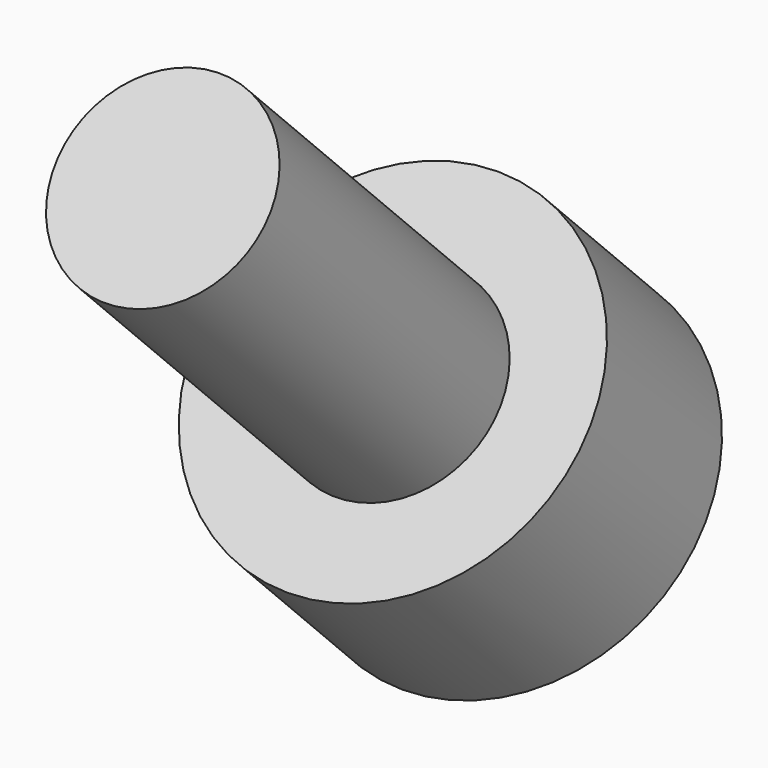
from build123d import *

# Parameters (mm, degrees)
SKETCH036_R             = 2.75
PAD021_DEPTH            = 3
SKETCH037_R             = 1.5
PAD022_DEPTH            = 6
POCKET017_DEPTH         = 4
BODY010_PLACEMENT_ANGLE = 225


with BuildPart() as part:
    # Sketch036 → Pad021 (new body)
    with BuildSketch(Plane.XY):
        Circle(SKETCH036_R)
    extrude(amount=PAD021_DEPTH)

    # Sketch037 (on Face2 of Pad021) → Pad022 (join)
    with BuildSketch(Plane(origin=(0, 0, 0), x_dir=(1, 0, 0), z_dir=(0, 0, -1))):
        Circle(SKETCH037_R)
    extrude(amount=PAD022_DEPTH)

    # Sketch038 (on DatumPlane) → Pocket017 (cut)
    with BuildSketch(Plane.XY.offset(3)):
        Polygon((0.721688, -1.25), (1.443376, 0), (0.721688, 1.25), (-0.721688, 1.25), (-1.443376, 0), (-0.721688, -1.25), align=None)
    extrude(amount=-POCKET017_DEPTH, mode=Mode.SUBTRACT)


with BuildPart() as part_1:
    # Body010 placement: moved
    add(part.part.moved(Location((-88.5, -61.871843, 6.010408))).rotate(Axis((-88.5, -61.871843, 6.010408), (1, 0, 0)), BODY010_PLACEMENT_ANGLE))


solid = part_1.part
